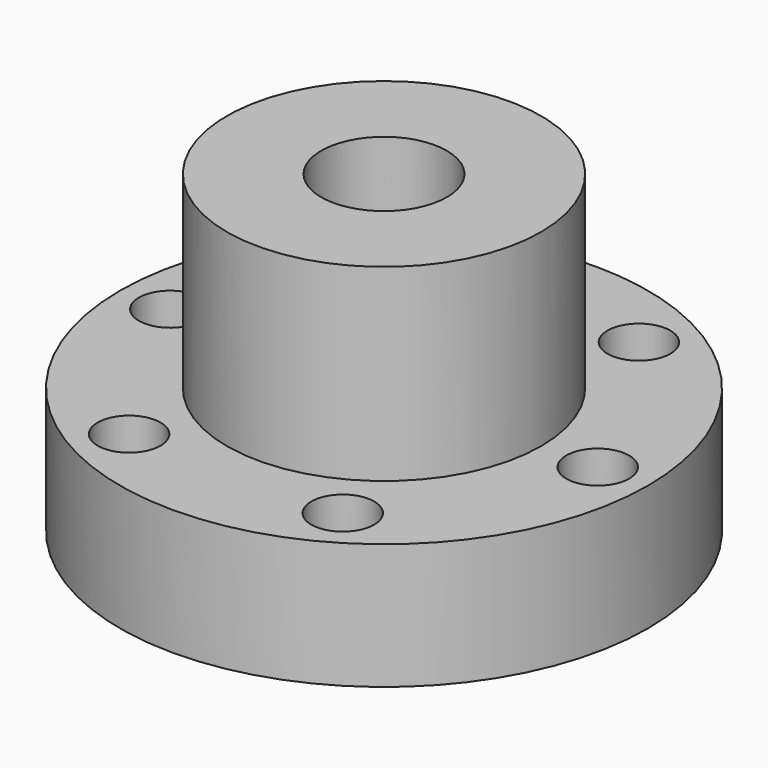
from build123d import *

# Parameters (mm, degrees)
F0_R     = 21
F1_DEPTH = 10
F2_R     = 12.5
F3_DEPTH = 15
F4_R     = 5
F5_DEPTH = 30
F6_R     = 2.5
F7_DEPTH = 25


with BuildPart() as f1:
    # F0 (on Top) → F1 (new body)
    with BuildSketch(Plane.XY):
        Circle(F0_R)
    extrude(amount=F1_DEPTH)

    # F2 (on face) → F3 (join)
    with BuildSketch(Plane.XY.offset(10)):
        Circle(F2_R)
    extrude(amount=F3_DEPTH)

    # F4 (on face) → F5 (cut)
    with BuildSketch(Plane.XY.offset(25)):
        Circle(F4_R)
    extrude(amount=-F5_DEPTH, mode=Mode.SUBTRACT)

    # F6 (on face) → F7 (cut)
    with BuildSketch(Plane(origin=(0, 0, 0), x_dir=(1, 0, 0), z_dir=(0, 0, -1))):
        with Locations((17, 0)):
            Circle(F6_R)
        with Locations((8.5, 14.722432)):
            Circle(F6_R)
        with Locations((-8.5, 14.722432)):
            Circle(F6_R)
        with Locations((-17, 0)):
            Circle(F6_R)
        with Locations((-8.5, -14.722432)):
            Circle(F6_R)
        with Locations((8.5, -14.722432)):
            Circle(F6_R)
    extrude(amount=-F7_DEPTH, mode=Mode.SUBTRACT)


solid = f1.part
